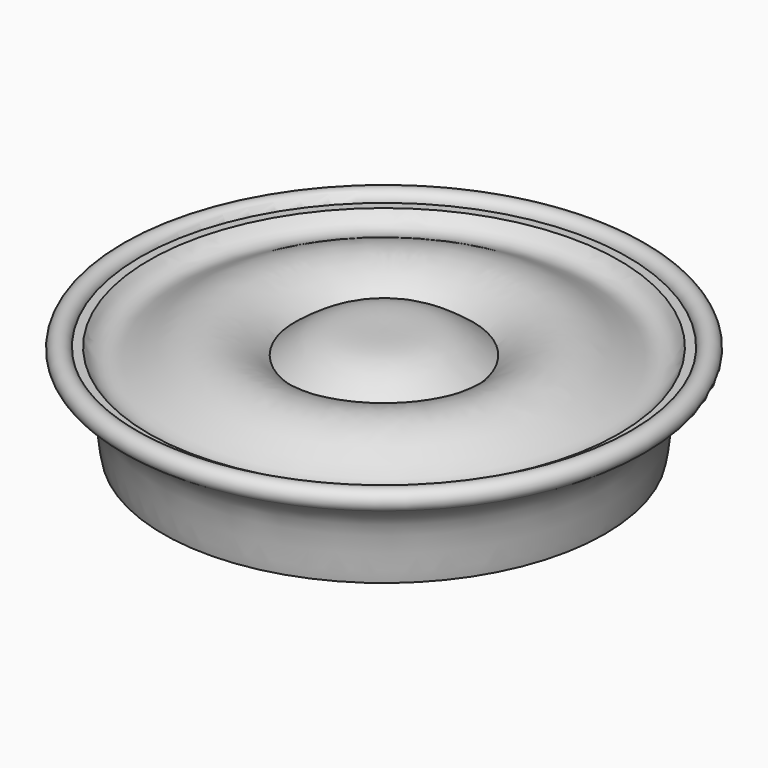
from build123d import *


with BuildPart() as f1:
    # F0 (on Front) → F1 (revolve)
    with BuildSketch(Plane.XZ):
        with BuildLine():
            Line((0, 8.89), (0, 0))
            Line((0, 0), (9.525, 0))
            Line((9.525, 0), (9.525, -10.16))
            Line((9.525, -10.16), (37.9879428238, -10.16))
            add(Edge.make_bspline(
                [(37.9879428238, -10.16), (38.5465929424, -8.0540294038), (38.5394706022, 1.1431867666), (43.1929971646, 3.1452968316), (44.711475948, 4.2582353115)],
                knots=[0, 0, 0, 0, 0.5609228691, 1, 1, 1, 1], degree=3))
            ThreePointArc((44.711475948, 4.2582353115), (44.5389362126, 7.1849355623), (41.9418262187, 5.8246547098))
            Line((41.9418262187, 5.8246547098), (40.4369564229, 5.8246547098))
            add(Edge.make_bspline(
                [(40.4369564229, 5.8246547098), (39.4854517485, 4.0239477935), (36.5984905247, 2.9287048978), (31.7379680759, 6.0107409853), (23.9897744674, 10.0120462064), (17.2054386489, 6.6351102067), (15.3626063442, 4.5893269133)],
                knots=[0, 0, 0, 0, 0.200061031, 0.4239977016, 0.7047772195, 1, 1, 1, 1], degree=3))
            add(Edge.make_bspline(
                [(15.3626063442, 4.5893269133), (13.3990436098, 6.0999510375), (9.0820505978, 9.2204172392), (4.1978668168, 8.8926475618), (0, 8.89)],
                knots=[0, 0, 0, 0, 0.467612136, 1, 1, 1, 1], degree=3))
        make_face()
    revolve(axis=Axis((0, 0, 4.445), (0, 0, -1)))


solid = f1.part
